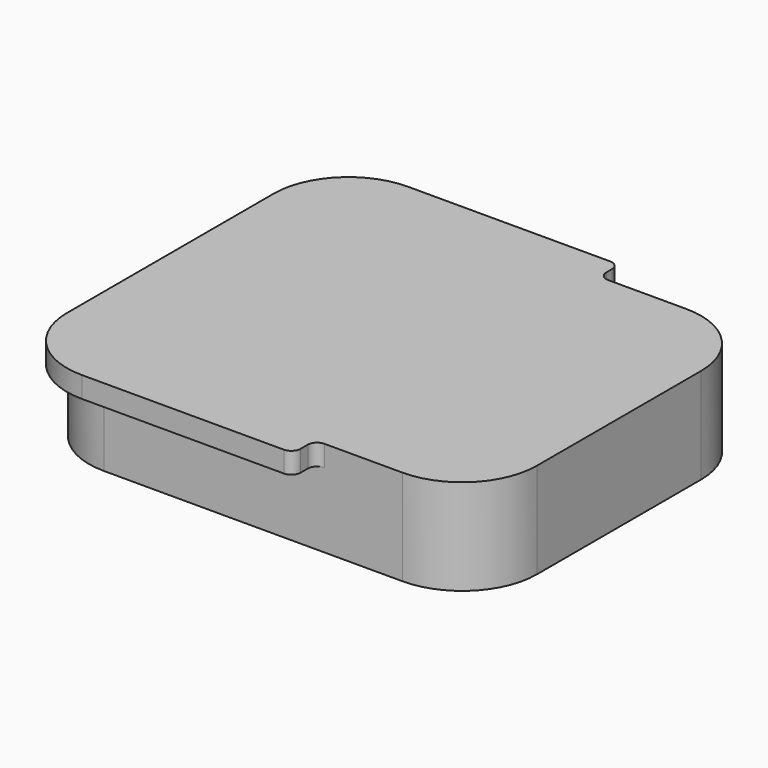
from build123d import *

# Parameters (mm, degrees)
F1_DEPTH = 10.25
F3_DEPTH = 2.25
F4_R     = 1


with BuildPart() as f1:
    # F0 (on Top) → F1 (new body)
    with BuildSketch(Plane.XY):
        with BuildLine():
            Line((16, 19), (-16, 19))
            ThreePointArc((-16, 19), (-21.6568542495, 16.6568542495), (-24, 11))
            Line((-24, 11), (-24, -11))
            ThreePointArc((-24, -11), (-21.6568542495, -16.6568542495), (-16, -19))
            Line((-16, -19), (16, -19))
            ThreePointArc((16, -19), (21.6568542495, -16.6568542495), (24, -11))
            Line((24, -11), (24, 11))
            ThreePointArc((24, 11), (21.6568542495, 16.6568542495), (16, 19))
        make_face()
    extrude(amount=F1_DEPTH)

    # F2 (on face) → F3 (join)
    with BuildSketch(Plane.XY.offset(10.25)):
        with BuildLine():
            Line((6.65, -21.95), (6.65, -19))
            Line((6.65, -19), (-16, -19))
            ThreePointArc((-16, -19), (-21.6568542495, -16.6568542495), (-24, -11))
            Line((-24, -11), (-24, -13.95))
            ThreePointArc((-24, -13.95), (-21.6568542495, -19.6068542495), (-16, -21.95))
            Line((-16, -21.95), (6.65, -21.95))
        make_face()
        with BuildLine():
            Line((6.65, 21.75), (-16, 21.75))
            ThreePointArc((-16, 21.75), (-21.6568542495, 19.4068542495), (-24, 13.75))
            Line((-24, 13.75), (-24, 11))
            ThreePointArc((-24, 11), (-21.6568542495, 16.6568542495), (-16, 19))
            Line((-16, 19), (6.65, 19))
            Line((6.65, 19), (6.65, 21.75))
        make_face()
    extrude(amount=-F3_DEPTH)

    # F4
    f4_edges = [f1.edges().sort_by_distance(p)[0] for p in [
        (6.65, 21.75, 9.125),
        (6.65, -21.95, 9.125),
        (6.65, -19, 9.125),
        (6.65, 19, 9.125),
    ]]
    fillet(f4_edges, radius=F4_R)


solid = f1.part
